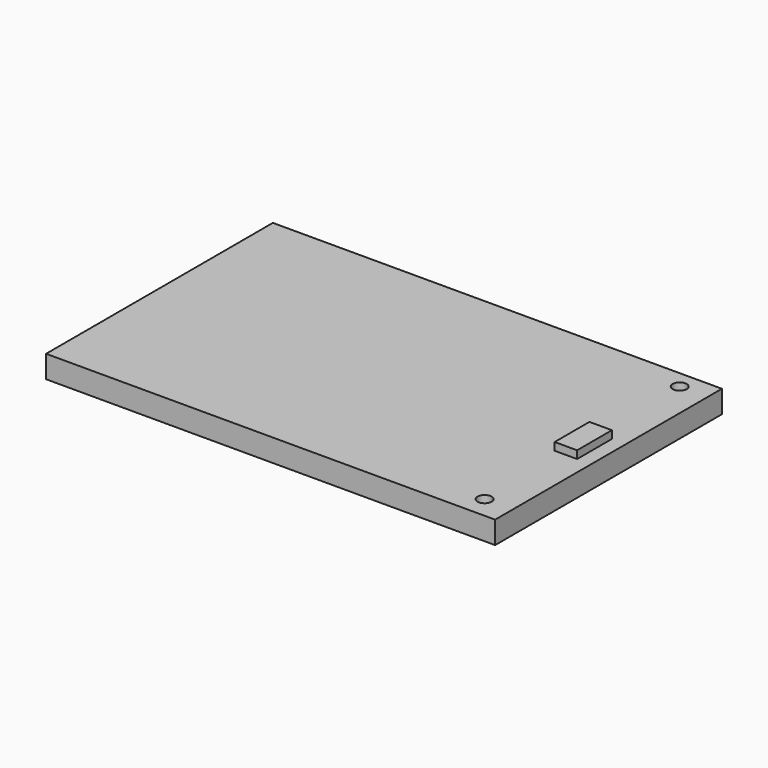
from build123d import *

# Parameters (mm, degrees)
SKETCH_W     = 32
SKETCH_H     = 20.2
PAD_DEPTH    = 1.6
SKETCH003_R  = 0.5
POCKET_DEPTH = 1.601
SKETCH004_W  = 1.6
SKETCH004_H  = 3.1
PAD003_DEPTH = 2.15


with BuildPart() as part:
    # Sketch → Pad (new body)
    with BuildSketch(Plane.XY):
        with Locations((16, 10.1)):
            Rectangle(SKETCH_W, SKETCH_H)
    extrude(amount=PAD_DEPTH)

    # Sketch003 → Pocket (cut, through all)
    with BuildSketch(Plane.XY):
        with Locations((30, 18.939)):
            Circle(SKETCH003_R)
        with Locations((30, 1.563)):
            Circle(SKETCH003_R)
    extrude(amount=POCKET_DEPTH, mode=Mode.SUBTRACT)

    # Sketch004 → Pad003 (join)
    with BuildSketch(Plane.XY):
        with Locations((30.2, 10.1)):
            Rectangle(SKETCH004_W, SKETCH004_H)
    extrude(amount=PAD003_DEPTH)


solid = part.part
